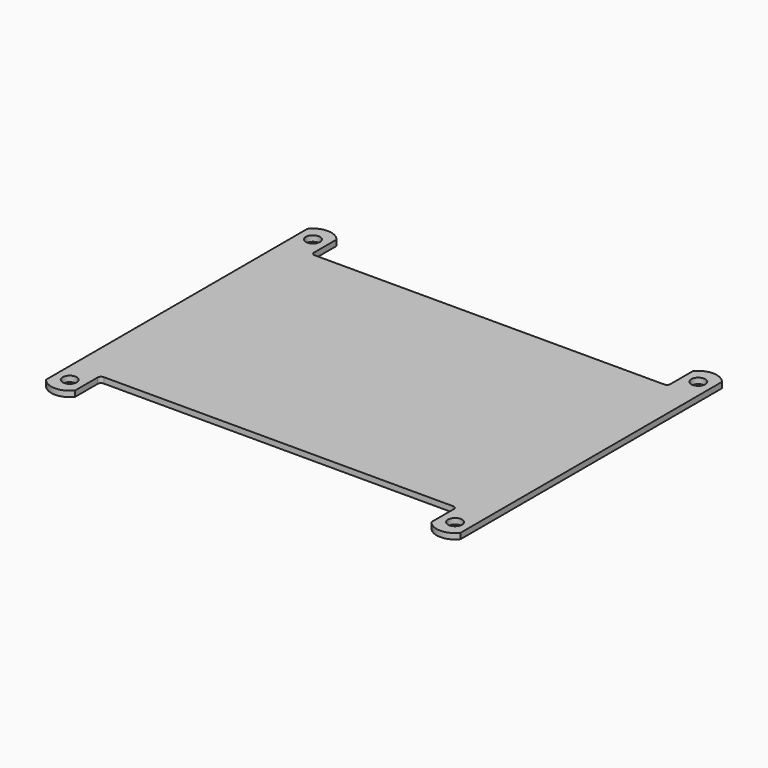
from build123d import *

# Parameters (mm, degrees)
SKETCH_W                   = 104
SKETCH_H                   = 77
PAD_DEPTH                  = 1.66
SKETCH001_W                = 8.5
SKETCH001_H                = 49.76
PAD001_DEPTH               = 1.66
SKETCH002_R                = 2.05
POCKET_DEPTH               = 1.66
POCKET001_DEPTH            = 5
SKETCH001_MIRRORED_2_W     = 8.5
SKETCH001_MIRRORED_2_H     = 49.76
PAD001_MIRRORED_2_DEPTH    = 1.66
SKETCH002_MIRRORED_2_R     = 2.05
POCKET_MIRRORED_2_DEPTH    = 1.66
POCKET001_MIRRORED_2_DEPTH = 5
FILLET_R                   = 1


with BuildPart() as part:
    # Sketch → Pad (new body)
    with BuildSketch(Plane.XY):
        Rectangle(SKETCH_W, SKETCH_H)
    extrude(amount=PAD_DEPTH)

    # Sketch001 → Pad001 (join)
    with BuildSketch(Plane.XY):
        with Locations((-56.25, 24.88)):
            Rectangle(SKETCH001_W, SKETCH001_H)
    pad001 = extrude(amount=PAD001_DEPTH)

    # Sketch002 → Pocket (cut)
    with BuildSketch(Plane.XY):
        with Locations((-56.25, 44.37)):
            Circle(SKETCH002_R)
    pocket = extrude(amount=POCKET_DEPTH, mode=Mode.SUBTRACT)

    # Sketch003 → Pocket001 (cut)
    with BuildSketch(Plane.XY):
        with BuildLine():
            ThreePointArc((-52, 47.685057), (-56.25, 49.76), (-60.5, 47.685057))
            Line((-60.5, 47.685057), (-60.5, 51.185057))
            Line((-60.5, 51.185057), (-52, 51.185057))
            Line((-52, 51.185057), (-52, 47.685057))
        make_face()
    pocket001 = extrude(amount=POCKET001_DEPTH, mode=Mode.SUBTRACT)

    # Sketch001 Mirrored 2 → Pad001 Mirrored 2 (add)
    with BuildSketch(Plane(origin=(0, 0, 0), x_dir=(-1, 0, 0), z_dir=(0, 0, -1))):
        with Locations((-56.25, 24.88)):
            Rectangle(SKETCH001_MIRRORED_2_W, SKETCH001_MIRRORED_2_H)
    pad001_mirrored_2 = extrude(amount=-PAD001_MIRRORED_2_DEPTH)

    # Sketch002 Mirrored 2 → Pocket Mirrored 2 (cut)
    with BuildSketch(Plane(origin=(0, 0, 0), x_dir=(-1, 0, 0), z_dir=(0, 0, -1))):
        with Locations((-56.25, 44.37)):
            Circle(SKETCH002_MIRRORED_2_R)
    pocket_mirrored_2 = extrude(amount=-POCKET_MIRRORED_2_DEPTH, mode=Mode.SUBTRACT)

    # Sketch003 Mirrored 2 → Pocket001 Mirrored 2 (cut)
    with BuildSketch(Plane(origin=(0, 0, 0), x_dir=(-1, 0, 0), z_dir=(0, 0, -1))):
        with BuildLine():
            ThreePointArc((-52, 47.685057), (-56.25, 49.76), (-60.5, 47.685057))
            Line((-60.5, 47.685057), (-60.5, 51.185057))
            Line((-60.5, 51.185057), (-52, 51.185057))
            Line((-52, 51.185057), (-52, 47.685057))
        make_face()
    pocket001_mirrored_2 = extrude(amount=-POCKET001_MIRRORED_2_DEPTH, mode=Mode.SUBTRACT)

    # Mirrored001: Pad001, Pocket, Pocket001, Pad001 Mirrored 2, Pocket Mirrored 2, Pocket001 Mirrored 2 across XZ
    add(pad001.mirror(Plane.XZ))
    add(pocket.mirror(Plane.XZ), mode=Mode.SUBTRACT)
    add(pocket001.mirror(Plane.XZ), mode=Mode.SUBTRACT)
    add(pad001_mirrored_2.mirror(Plane.XZ))
    add(pocket_mirrored_2.mirror(Plane.XZ), mode=Mode.SUBTRACT)
    add(pocket001_mirrored_2.mirror(Plane.XZ), mode=Mode.SUBTRACT)

    # Fillet
    fillet_edges = [part.edges().sort_by_distance(p)[0] for p in [
        (-52, 38.5, 0.83),
        (52, 38.5, 0.83),
        (-52, -38.5, 0.83),
        (52, -38.5, 0.83),
    ]]
    fillet(fillet_edges, radius=FILLET_R)


solid = part.part
